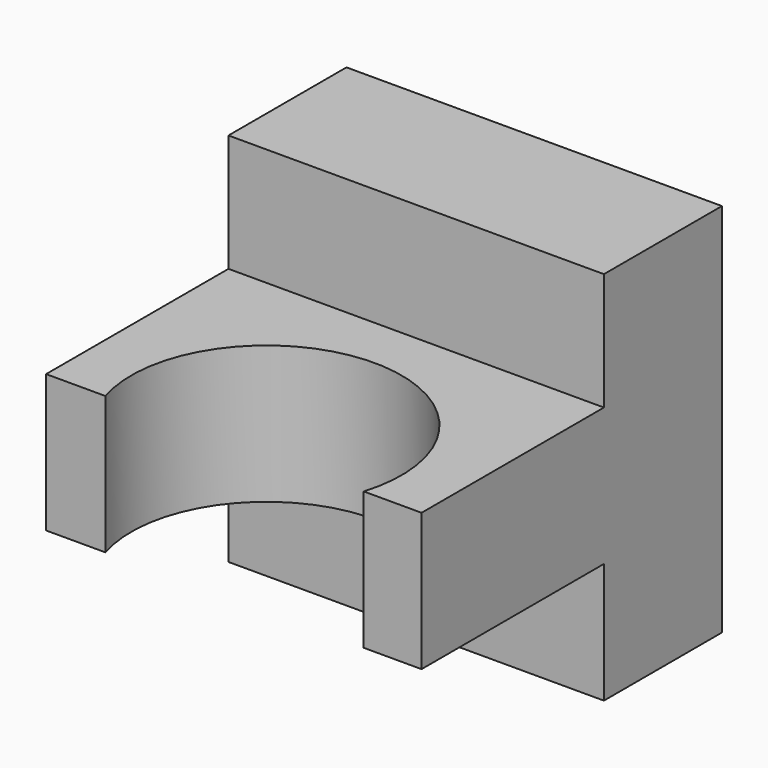
from build123d import *

# Parameters (mm, degrees)
F0_W     = 8.4
F0_H     = 8.4
F1_DEPTH = 3.3
F2_W     = 8.4
F2_H     = 3.08
F3_DEPTH = 5.1
F5_DEPTH = 25
F6_R     = 2.485
F7_DEPTH = 3.25


with BuildPart() as f1:
    # F0 (on Front) → F1 (new body)
    with BuildSketch(Plane.XZ):
        with Locations((-4.2, 0.163636)):
            Rectangle(F0_W, F0_H)
    extrude(amount=F1_DEPTH)

    # F2 (on face) → F3 (join)
    with BuildSketch(Plane.XZ.offset(3.3)):
        with Locations((-4.2, 0.196881)):
            Rectangle(F2_W, F2_H)
    extrude(amount=F3_DEPTH)

    # F4 (on face) → F5 (cut)
    with BuildSketch(Plane(origin=(0, 0, -1.343119), x_dir=(1, 0, 0), z_dir=(0, 0, -1))):
        with BuildLine():
            Line((-1.293083, 8.4), (-7.072899, 8.4))
            ThreePointArc((-7.072899, 8.4), (-4.182991, 4.484563), (-1.293083, 8.4))
        make_face()
    extrude(amount=-F5_DEPTH, mode=Mode.SUBTRACT)

    # F6 (on face) → F7 (cut)
    with BuildSketch(Plane(origin=(0, 0, 0), x_dir=(-1, 0, 0), z_dir=(0, 1, 0))):
        with Locations((4.167378, 0)):
            Circle(F6_R)
    extrude(amount=-F7_DEPTH, mode=Mode.SUBTRACT)


solid = f1.part
